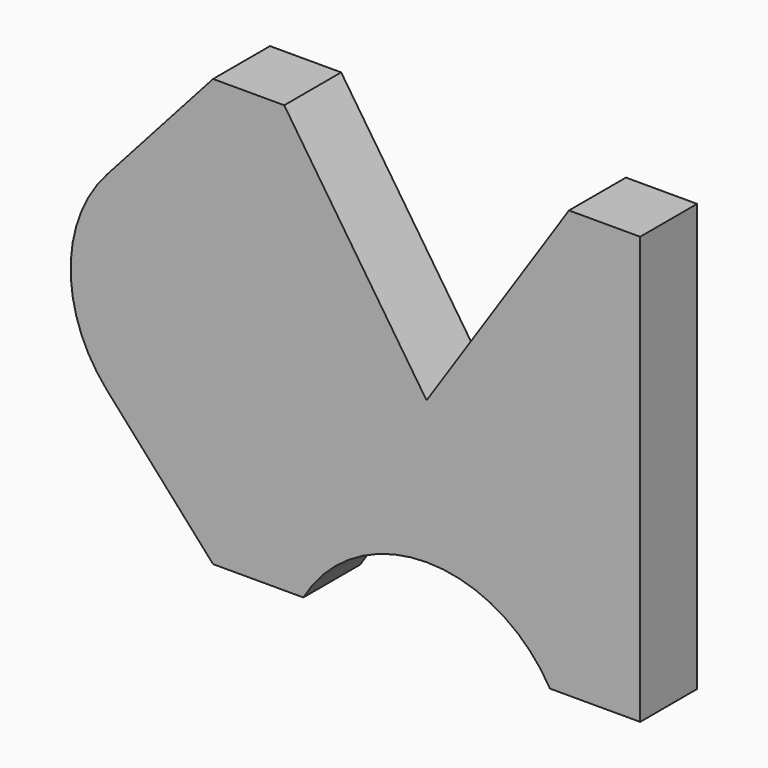
from build123d import *

# Parameters (mm, degrees)
F1_DEPTH = 10


with BuildPart() as f1:
    # F0 (on Front) → F1 (new body)
    with BuildSketch(Plane.XZ):
        with BuildLine():
            Line((30, -30), (30, 30))
            Line((30, 30), (20, 30))
            Line((20, 30), (0, 0))
            Line((0, 0), (-20, 30))
            Line((-20, 30), (-30, 30))
            Line((-30, 30), (-44.90712, 13.333333))
            ThreePointArc((-44.90712, 13.333333), (-50, 0), (-44.90712, -13.333333))
            Line((-44.90712, -13.333333), (-30, -30))
            Line((-30, -30), (-17.320508, -30))
            ThreePointArc((-17.320508, -30), (0, -20), (17.320508, -30))
            Line((17.320508, -30), (30, -30))
        make_face()
    extrude(amount=F1_DEPTH)


solid = f1.part
